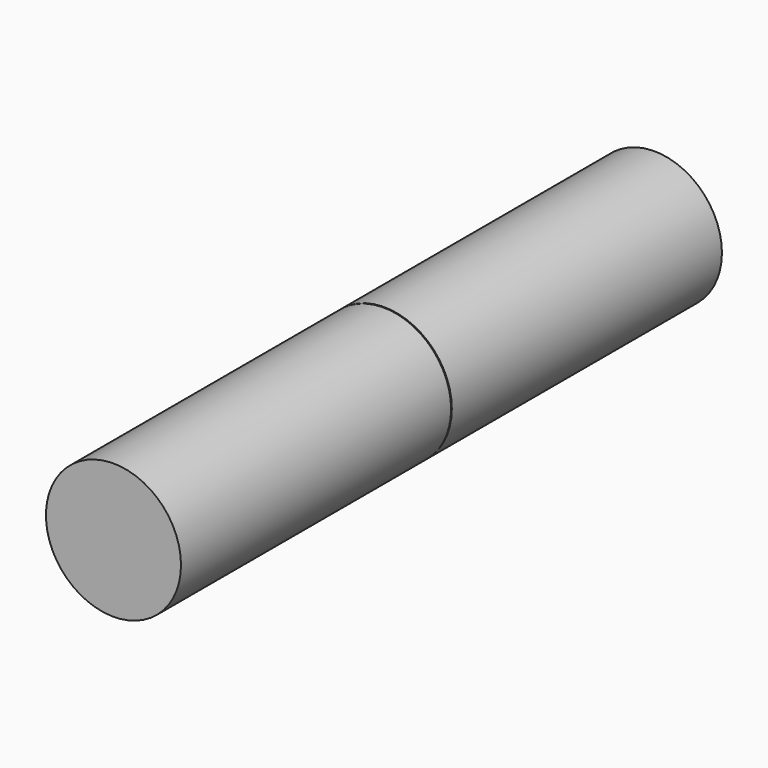
from build123d import *

# Parameters (mm, degrees)
F0_R     = 3
F0_R_2   = 1.75
F1_DEPTH = 15
F2_DEPTH = 4.9


with BuildPart() as f1:
    # F0 (on Front) → F1 (new body)
    with BuildSketch(Plane.XZ):
        Circle(F0_R)
        Circle(F0_R_2, mode=Mode.SUBTRACT)
        Circle(F0_R)
        Circle(F0_R_2, mode=Mode.SUBTRACT)
        Circle(F0_R_2)
    extrude(amount=F1_DEPTH)

    # F0 (on Front) → F2 (cut)
    with BuildSketch(Plane.XZ):
        Circle(F0_R_2)
    extrude(amount=F2_DEPTH, mode=Mode.SUBTRACT)


with BuildPart() as f4_1:
    # F4: instance of F1
    add(f1.part.mirror(Plane.XZ.offset(-0.02)))


solid = Compound([f1.part, f4_1.part])
